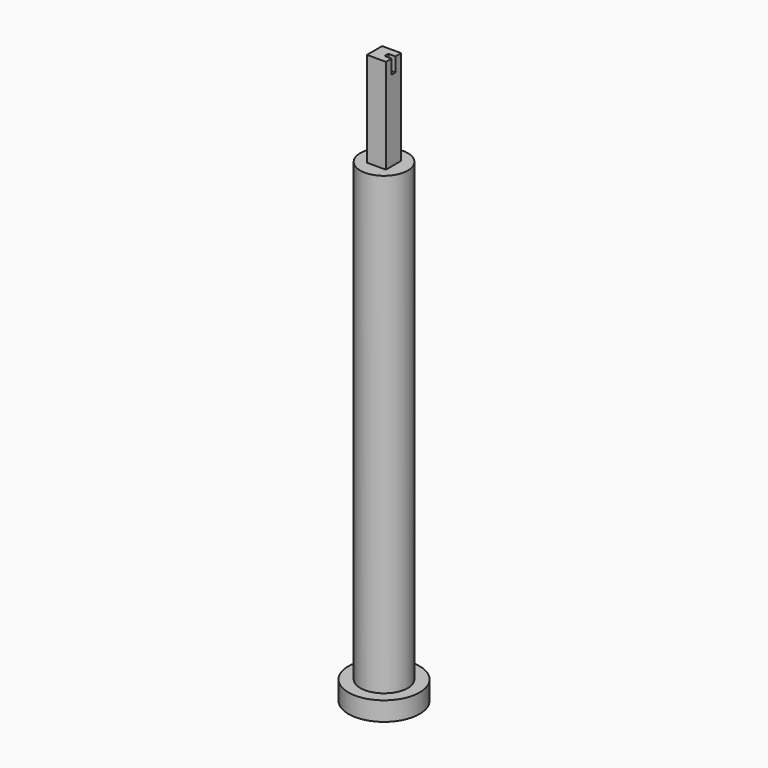
from build123d import *

# Parameters (mm, degrees)
F0_R     = 7.5
F1_DEPTH = 4
F2_R     = 5
F3_DEPTH = 100
F4_W     = 4
F4_H     = 4
F5_DEPTH = 20
F6_W     = 2.261252
F6_H     = 1
F7_DEPTH = 3


with BuildPart() as f1:
    # F0 (on Top) → F1 (new body)
    with BuildSketch(Plane.XY):
        Circle(F0_R)
    extrude(amount=F1_DEPTH)

    # F2 (on Top) → F3 (join)
    with BuildSketch(Plane.XY):
        Circle(F2_R)
    extrude(amount=F3_DEPTH)

    # F4 (on face) → F5 (join)
    with BuildSketch(Plane.XY.offset(100)):
        Rectangle(F4_W, F4_H)
    extrude(amount=F5_DEPTH)

    # F6 (on face) → F7 (cut)
    with BuildSketch(Plane.XY.offset(120)):
        with Locations((1.630626, 0)):
            Rectangle(F6_W, F6_H)
    extrude(amount=-F7_DEPTH, mode=Mode.SUBTRACT)


solid = f1.part
